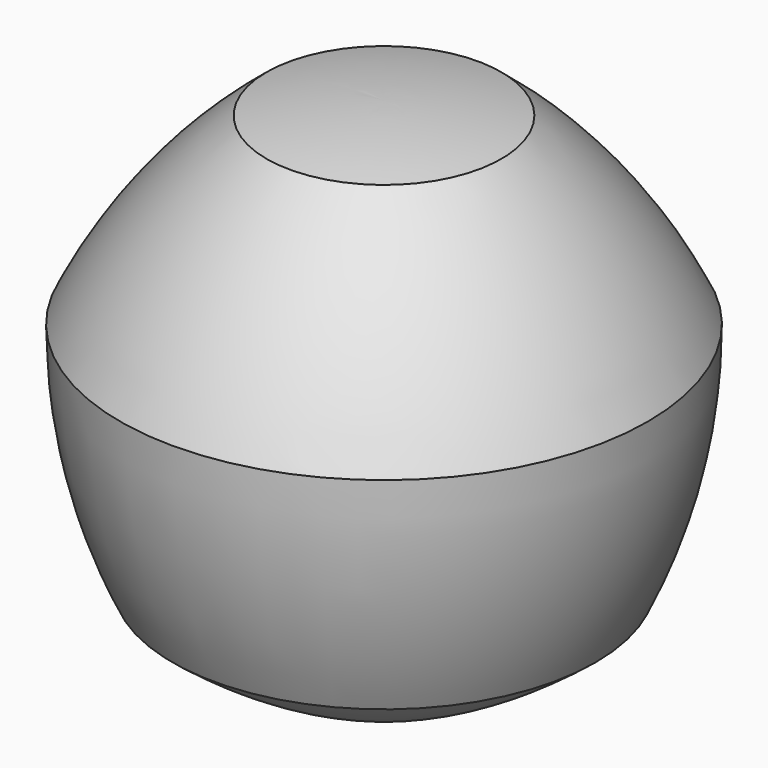
from build123d import *


with BuildPart() as f1:
    # F0 (on Front) → F1 (revolve)
    with BuildSketch(Plane.XZ):
        Polygon((0, 30.7975), (-14.831294, 30.7975), (-33.325616, 7.606354), (-26.725069, -21.312531), (0, -34.182646), align=None)
        with BuildLine():
            ThreePointArc((-26.725069, -21.312531), (-14.087591, -29.253185), (0, -34.182646))
            Line((0, -34.182646), (-26.725069, -21.312531))
        make_face()
        with BuildLine():
            Line((-26.725069, -21.312531), (-33.325616, 7.606354))
            ThreePointArc((-33.325616, 7.606354), (-31.65453, -7.22494), (-26.725069, -21.312531))
        make_face()
        with BuildLine():
            Line((-33.325616, 7.606354), (-14.831294, 30.7975))
            ThreePointArc((-14.831294, 30.7975), (-25.384962, 20.243832), (-33.325616, 7.606354))
        make_face()
        with BuildLine():
            ThreePointArc((0, 32.468586), (-7.46257, 32.049497), (-14.831294, 30.7975))
            Line((-14.831294, 30.7975), (0, 30.7975))
            Line((0, 30.7975), (0, 32.468586))
        make_face()
    revolve(axis=Axis((0, 0, -1.692573), (0, 0, 1)))


solid = f1.part
